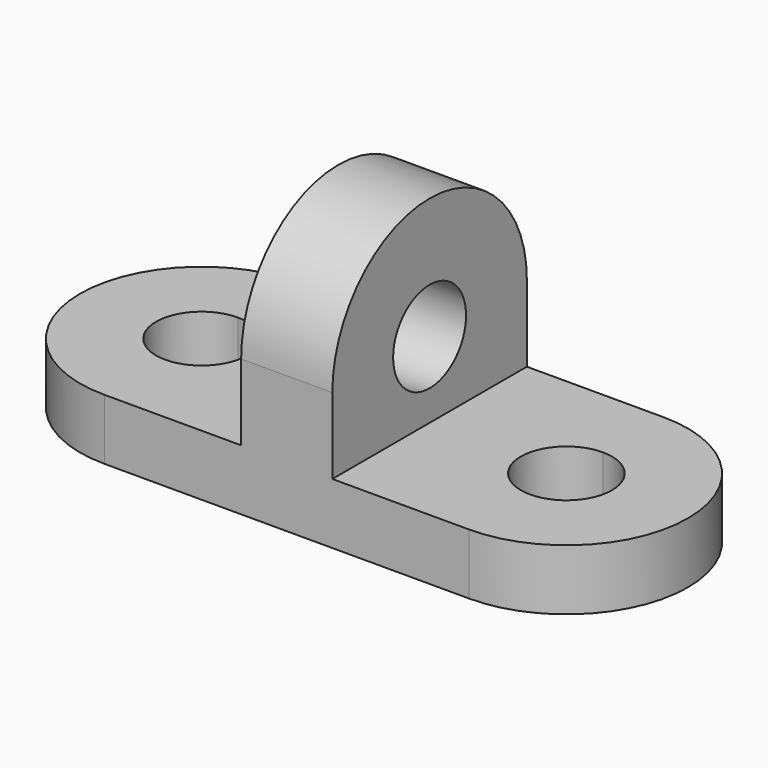
from build123d import *

# Parameters (mm, degrees)
F1_DEPTH = 12.7
F2_W     = 19.05
F2_H     = 50.8
F3_DEPTH = 15.875
F5_DEPTH = 19.05
F6_R     = 9.525
F7_DEPTH = 19.05


with BuildPart() as f1:
    # F0 (on Top) → F1 (new body)
    with BuildSketch(Plane.XY):
        with BuildLine():
            Line((36.467142, 20.915313), (-39.732858, 20.915313))
            Line((-39.732858, 20.915313), (-39.732858, 5.040313))
            ThreePointArc((-39.732858, 5.040313), (-32.997666, 2.250505), (-30.207858, -4.484687))
            ThreePointArc((-30.207858, -4.484687), (-32.997666, -11.219879), (-39.732858, -14.009687))
            Line((-39.732858, -14.009687), (-39.732858, -29.884687))
            Line((-39.732858, -29.884687), (36.467142, -29.884687))
            Line((36.467142, -29.884687), (36.467142, -14.009687))
            ThreePointArc((36.467142, -14.009687), (26.942142, -4.484687), (36.467142, 5.040313))
            Line((36.467142, 5.040313), (36.467142, 20.915313))
        make_face()
        with BuildLine():
            Line((-39.732858, 5.040313), (-39.732858, 20.915313))
            ThreePointArc((-39.732858, 20.915313), (-65.132858, -4.484687), (-39.732858, -29.884687))
            Line((-39.732858, -29.884687), (-39.732858, -14.009687))
            ThreePointArc((-39.732858, -14.009687), (-49.257858, -4.484687), (-39.732858, 5.040313))
        make_face()
        with BuildLine():
            ThreePointArc((36.467142, -29.884687), (61.867142, -4.484687), (36.467142, 20.915313))
            Line((36.467142, 20.915313), (36.467142, 5.040313))
            ThreePointArc((36.467142, 5.040313), (43.202334, 2.250505), (45.992142, -4.484687))
            ThreePointArc((45.992142, -4.484687), (43.202334, -11.219879), (36.467142, -14.009687))
            Line((36.467142, -14.009687), (36.467142, -29.884687))
        make_face()
    extrude(amount=F1_DEPTH)

    # F2 (on face) → F3 (join)
    with BuildSketch(Plane.XY.offset(12.7)):
        with Locations((-1.632858, -4.484687)):
            Rectangle(F2_W, F2_H)
    extrude(amount=F3_DEPTH)

    # F4 (on face) → F5 (join)
    with BuildSketch(Plane(origin=(-11.157858, 0, 0), x_dir=(0, -1, 0), z_dir=(-1, 0, 0))):
        with BuildLine():
            Line((-20.915313, 28.575), (29.884687, 28.575))
            ThreePointArc((29.884687, 28.575), (4.484687, 53.975), (-20.915313, 28.575))
        make_face()
    extrude(amount=-F5_DEPTH)

    # F6 (on face) → F7 (cut)
    with BuildSketch(Plane(origin=(-11.157858, 0, 0), x_dir=(0, -1, 0), z_dir=(-1, 0, 0))):
        with Locations((4.484687, 28.575)):
            Circle(F6_R)
    extrude(amount=-F7_DEPTH, mode=Mode.SUBTRACT)


solid = f1.part
